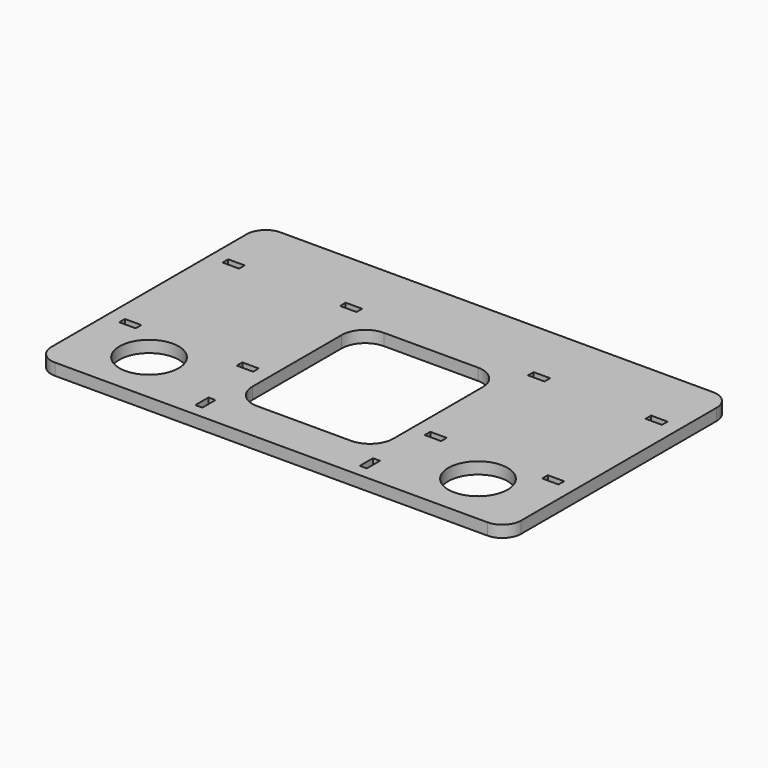
from build123d import *

# Parameters (mm, degrees)
F0_R     = 8
F0_W     = 1.905
F0_H     = 4.445
F0_W_2   = 4.445
F0_H_2   = 1.905
F0_W_3   = 38.1
F0_H_3   = 42.8625
F1_DEPTH = 3.175
F2_R     = 6.35
F3_R     = 5.08


with BuildPart() as f1:
    # F0 (on Top) → F1 (new body)
    with BuildSketch(Plane.XY):
        Polygon((-63.5, -31.75), (63.5, -31.75), (63.5, 31.75), (63.5, 44.45), (-63.5, 44.45), (-63.5, 31.75), align=None)
        with Locations((-44.45, -17.4625)):
            Circle(F0_R, mode=Mode.SUBTRACT)
        with Locations((-22.225, -26.19375)):
            Rectangle(F0_W, F0_H, mode=Mode.SUBTRACT)
        with Locations((-57.15, -7.9375)):
            Rectangle(F0_W_2, F0_H_2, mode=Mode.SUBTRACT)
        with Locations((-25.4, -7.9375)):
            Rectangle(F0_W_2, F0_H_2, mode=Mode.SUBTRACT)
        with Locations((22.225, -26.19375)):
            Rectangle(F0_W, F0_H, mode=Mode.SUBTRACT)
        with Locations((44.45, -17.4625)):
            Circle(F0_R, mode=Mode.SUBTRACT)
        with Locations((25.4, -7.9375)):
            Rectangle(F0_W_2, F0_H_2, mode=Mode.SUBTRACT)
        with Locations((0, 0.79375)):
            Rectangle(F0_W_3, F0_H_3, mode=Mode.SUBTRACT)
        with Locations((57.15, -7.9375)):
            Rectangle(F0_W_2, F0_H_2, mode=Mode.SUBTRACT)
        with Locations((-57.15, 26.9875)):
            Rectangle(F0_W_2, F0_H_2, mode=Mode.SUBTRACT)
        with Locations((-25.4, 26.9875)):
            Rectangle(F0_W_2, F0_H_2, mode=Mode.SUBTRACT)
        with Locations((25.4, 26.9875)):
            Rectangle(F0_W_2, F0_H_2, mode=Mode.SUBTRACT)
        with Locations((57.15, 26.9875)):
            Rectangle(F0_W_2, F0_H_2, mode=Mode.SUBTRACT)
    extrude(amount=F1_DEPTH)

    # F2
    f2_edges = [f1.edges().sort_by_distance(p)[0] for p in [
        (-19.05, 22.225, 1.5875),
        (19.05, 22.225, 1.5875),
        (-19.05, -20.6375, 1.5875),
        (19.05, -20.6375, 1.5875),
    ]]
    fillet(f2_edges, radius=F2_R)

    # F3
    f3_edges = [f1.edges().sort_by_distance(p)[0] for p in [
        (-63.5, 44.45, 1.5875),
        (-63.5, -31.75, 1.5875),
        (63.5, -31.75, 1.5875),
        (63.5, 44.45, 1.5875),
    ]]
    fillet(f3_edges, radius=F3_R)


solid = f1.part
